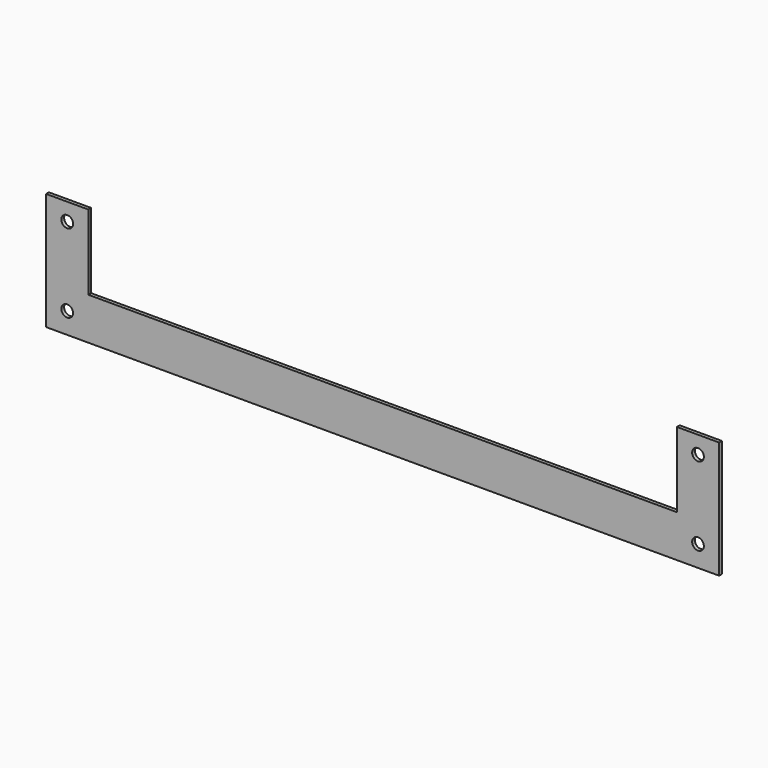
from build123d import *

# Parameters (mm, degrees)
F0_R     = 2.5
F1_DEPTH = 1.5


with BuildPart() as f1:
    # F0 (on Front) → F1 (new body)
    with BuildSketch(Plane.XZ):
        Polygon((-143.5, 0), (0, 0), (143.5, 0), (143.5, 50), (125.5, 50), (125.5, 18), (0, 18), (-125.5, 18), (-125.5, 50), (-143.5, 50), align=None)
        with Locations((-134.5, 9)):
            Circle(F0_R, mode=Mode.SUBTRACT)
        with Locations((134.5, 9)):
            Circle(F0_R, mode=Mode.SUBTRACT)
        with Locations((-134.5, 42.5)):
            Circle(F0_R, mode=Mode.SUBTRACT)
        with Locations((134.5, 42.5)):
            Circle(F0_R, mode=Mode.SUBTRACT)
    extrude(amount=F1_DEPTH)


solid = f1.part
